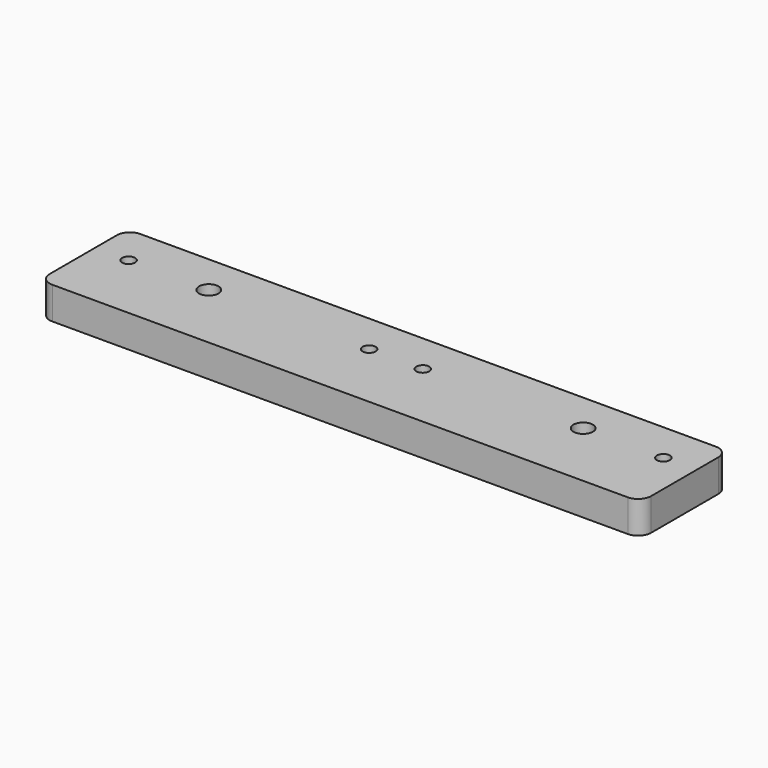
from build123d import *

# Parameters (mm, degrees)
F0_W           = 93
F0_H           = 17
F1_DEPTH       = 5
F2_D           = 2
F3_D           = 3
F3_CSINK_D     = 5.5
F3_CSINK_ANGLE = 90
F4_R           = 2


with BuildPart() as f1:
    # F0 (on Top) → F1 (new body)
    with BuildSketch(Plane.XY):
        Rectangle(F0_W, F0_H)
    extrude(amount=F1_DEPTH)

    # F2 (through all)
    with Locations(Plane(origin=(0, 0, 0), x_dir=(1, 0, 0), z_dir=(0, 0, -1))):
        with Locations((-41.3, -2.25), (-4.1, -2.25), (4.2, -2.25), (41.4, -2.25)):
            Hole(F2_D / 2)

    # F3 (through all)
    with Locations(Plane(origin=(0, 0, 0), x_dir=(1, 0, 0), z_dir=(0, 0, -1))):
        with Locations((29, -2.25), (-28.9, -2.25)):
            CounterSinkHole(F3_D / 2, F3_CSINK_D / 2, counter_sink_angle=F3_CSINK_ANGLE)

    # F4
    f4_edges = [f1.edges().sort_by_distance(p)[0] for p in [
        (46.5, 8.5, 2.5),
        (46.5, -8.5, 2.5),
        (-46.5, 8.5, 2.5),
        (-46.5, -8.5, 2.5),
    ]]
    fillet(f4_edges, radius=F4_R)


solid = f1.part
